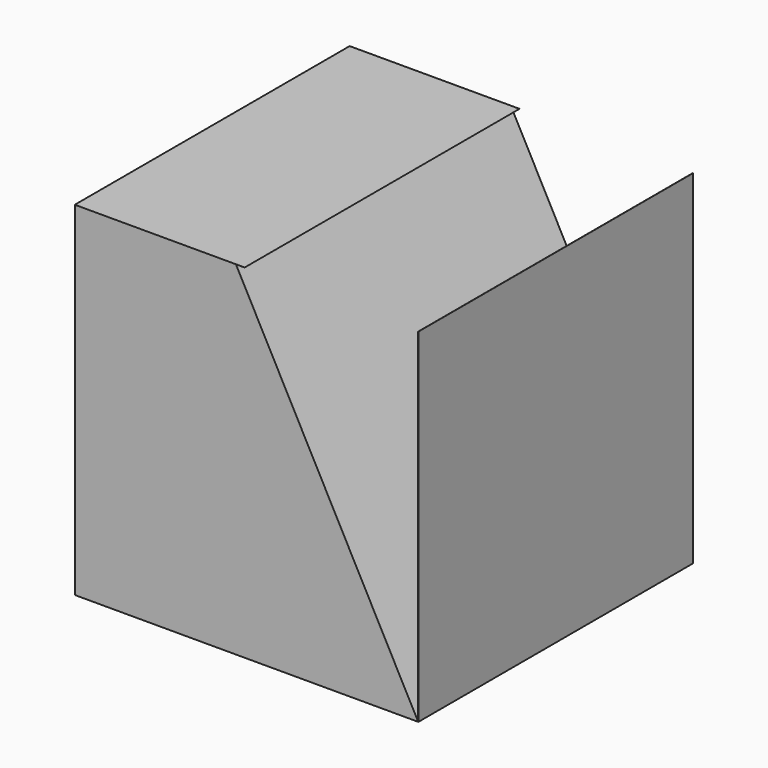
from build123d import *

# Parameters (mm, degrees)
F0_W     = 100
F0_H     = 100
F1_DEPTH = 100
F3_DEPTH = 85


with BuildPart() as f1:
    # F0 (on Top) → F1 (new body)
    with BuildSketch(Plane.XY):
        with Locations((4.546897, -9.991997)):
            Rectangle(F0_W, F0_H)
    extrude(amount=F1_DEPTH)

    # F2 (on Front) → F3 (cut, symmetric)
    with BuildSketch(Plane.XZ):
        Polygon((54.498803, 0), (54.498803, 100.559108), (1.467651, 99.972047), align=None)
    extrude(amount=F3_DEPTH, both=True, mode=Mode.SUBTRACT)


solid = f1.part
